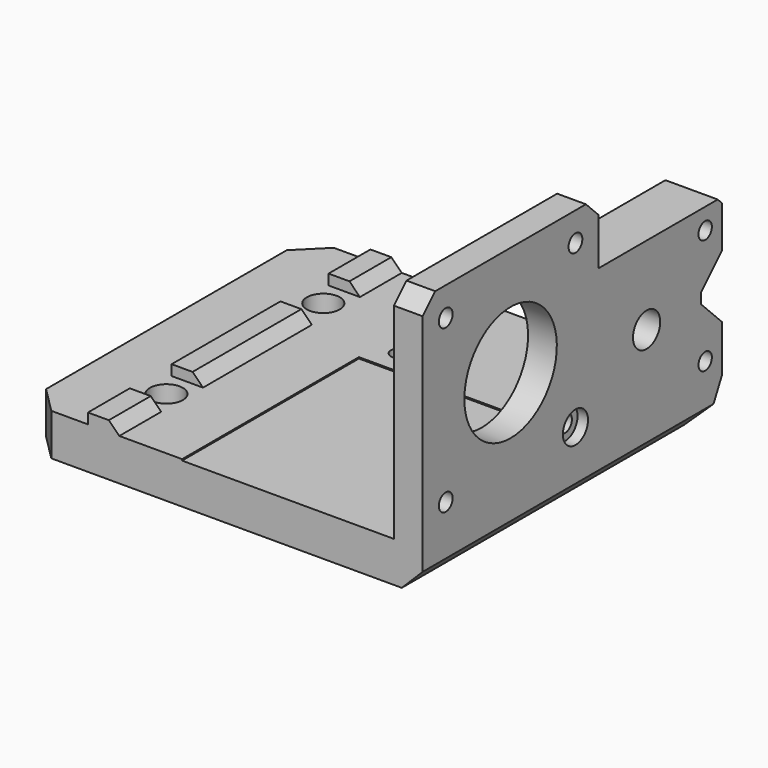
from build123d import *

# Parameters (mm, degrees)
BOX029_W             = 19
BOX029_H             = 28
BOX029_DEPTH         = 12
CHAMFER024034_SIZE   = 5
CYLINDER011018_R     = 3.5
CYLINDER011018_DEPTH = 3
CYLINDER007_R        = 1.65
CYLINDER007_DEPTH    = 16
CYLINDER011048_R     = 2
CYLINDER011048_DEPTH = 8
CYLINDER011049_R     = 2
CYLINDER011049_DEPTH = 8
CYLINDER011040_R     = 6.5
CYLINDER011040_DEPTH = 2
CYLINDER011041_R     = 3.15
CYLINDER011041_DEPTH = 10
CYLINDER011042_R     = 3.15
CYLINDER011042_DEPTH = 10
CYLINDER011039_R     = 6.5
CYLINDER011039_DEPTH = 2
BOX026_W             = 6
BOX026_H             = 26
BOX026_DEPTH         = 3
BOX025_W             = 6
BOX025_H             = 10
BOX025_DEPTH         = 3
BOX027_W             = 6
BOX027_H             = 10
BOX027_DEPTH         = 3
CHAMFER024022_SIZE   = 2
CYLINDER011002_R     = 1.6
CYLINDER011002_DEPTH = 12
CYLINDER015_R        = 1.6
CYLINDER015_DEPTH    = 12
CYLINDER011036_R     = 3.25
CYLINDER011036_DEPTH = 14
BOX035_W             = 40.5
BOX035_H             = 42.5
BOX035_DEPTH         = 42.5
BOX019_W             = 10
BOX019_H             = 82
BOX019_DEPTH         = 10
CHAMFER013_SIZE      = 4
BOX008_W             = 10
BOX008_H             = 5
BOX008_DEPTH         = 10
CHAMFER002_SIZE2     = 4
CHAMFER002_SIZE      = 8
BOX003_W             = 76
BOX003_H             = 67.5
BOX003_DEPTH         = 8
CYLINDER011015_R     = 11.05
CYLINDER011015_DEPTH = 23
CYLINDER011013_R     = 3
CYLINDER011013_DEPTH = 10
CYLINDER011011_R     = 1.65
CYLINDER011011_DEPTH = 10
CYLINDER011010_R     = 1.65
CYLINDER011010_DEPTH = 10
CYLINDER011009_R     = 1.65
CYLINDER011009_DEPTH = 10
CYLINDER011012_R     = 1.65
CYLINDER011012_DEPTH = 10
BOX001_W             = 6
BOX001_H             = 42
BOX001_DEPTH         = 42
CHAMFER004_SIZE      = 3
BOX002_W             = 10
BOX002_H             = 29.5
BOX002_DEPTH         = 30
CHAMFER024021_SIZE   = 1
CHAMFER024023_SIZE   = 5


with BuildPart() as chamfer024034:
    # Box029 → Box029 (new body)
    with BuildSketch(Plane(origin=(-16, 67, 9), x_dir=(1, 0, 0), z_dir=(0, 0, 1))):
        with Locations((9.5, 14)):
            Rectangle(BOX029_W, BOX029_H)
    extrude(amount=BOX029_DEPTH)

    # Chamfer024034
    chamfer024034_edges = [chamfer024034.edges().sort_by_distance(p)[0] for p in [
        (-6.5, 67, 9),
        (-6.5, 67, 21),
    ]]
    chamfer(chamfer024034_edges, length=CHAMFER024034_SIZE)


with BuildPart() as chamfer024034_1:
    # Chamfer024034 placement: moved
    add(chamfer024034.part.moved(Location((5, -21.5, 0))))


with BuildPart() as cylinder011018:
    # Cylinder011018 → Cylinder011018 (new body)
    with BuildSketch(Plane(origin=(-36, 26, -8), x_dir=(1, 0, 0), z_dir=(0, 0, 1))):
        Circle(CYLINDER011018_R)
    extrude(amount=CYLINDER011018_DEPTH)


with BuildPart() as fusion006002011004034:
    # Cylinder007 → Cylinder007 (new body)
    with BuildSketch(Plane(origin=(-36, 26, -8), x_dir=(1, 0, 0), z_dir=(0, 0, 1))):
        Circle(CYLINDER007_R)
    extrude(amount=CYLINDER007_DEPTH)

    # Fusion006002011004034: union Cylinder011018
    add(cylinder011018.part)


with BuildPart() as cylinder011048:
    # Cylinder011048 → Cylinder011048 (new body)
    with BuildSketch(Plane(origin=(-4, 25, 4), x_dir=(0, 0, -1), z_dir=(1, 0, 0))):
        Circle(CYLINDER011048_R)
    extrude(amount=CYLINDER011048_DEPTH)


with BuildPart() as fusion006002011004041:
    # Cylinder011049 → Cylinder011049 (new body)
    with BuildSketch(Plane(origin=(-4, 25, 26), x_dir=(0, 0, -1), z_dir=(1, 0, 0))):
        Circle(CYLINDER011049_R)
    extrude(amount=CYLINDER011049_DEPTH)

    # Fusion006002011004041: union Cylinder011048
    add(cylinder011048.part)


with BuildPart() as cylinder011040:
    # Cylinder011040 → Cylinder011040 (new body)
    with BuildSketch(Plane(origin=(-55, 31.5, -10), x_dir=(1, 0, 0), z_dir=(0, 0, 1))):
        Circle(CYLINDER011040_R)
    extrude(amount=CYLINDER011040_DEPTH)


with BuildPart() as cylinder011041:
    # Cylinder011041 → Cylinder011041 (new body)
    with BuildSketch(Plane(origin=(-55, 31.5, -10), x_dir=(1, 0, 0), z_dir=(0, 0, 1))):
        Circle(CYLINDER011041_R)
    extrude(amount=CYLINDER011041_DEPTH)


with BuildPart() as cylinder011042:
    # Cylinder011042 → Cylinder011042 (new body)
    with BuildSketch(Plane(origin=(-55, -6, -10), x_dir=(1, 0, 0), z_dir=(0, 0, 1))):
        Circle(CYLINDER011042_R)
    extrude(amount=CYLINDER011042_DEPTH)


with BuildPart() as fusion006002011004053024:
    # Cylinder011039 → Cylinder011039 (new body)
    with BuildSketch(Plane(origin=(-55, -6, -10), x_dir=(1, 0, 0), z_dir=(0, 0, 1))):
        Circle(CYLINDER011039_R)
    extrude(amount=CYLINDER011039_DEPTH)

    # Fusion006002011004053024: union Cylinder011040, Cylinder011041, Cylinder011042
    add(cylinder011040.part)
    add(cylinder011041.part)
    add(cylinder011042.part)


with BuildPart() as fusion006002011004053024_1:
    # Fusion006002011004053024 placement: moved
    add(fusion006002011004053024.part.moved(Location((0, 0, 2))))


with BuildPart() as cube025:
    # Box026 → Box026 (new body)
    with BuildSketch(Plane(origin=(-58, -1, -1), x_dir=(1, 0, 0), z_dir=(0, 0, 1))):
        with Locations((3, 13)):
            Rectangle(BOX026_W, BOX026_H)
    extrude(amount=BOX026_DEPTH)


with BuildPart() as cube024:
    # Box025 → Box025 (new body)
    with BuildSketch(Plane(origin=(-58, -21, -1), x_dir=(1, 0, 0), z_dir=(0, 0, 1))):
        with Locations((3, 5)):
            Rectangle(BOX025_W, BOX025_H)
    extrude(amount=BOX025_DEPTH)


with BuildPart() as chamfer024022:
    # Box027 → Box027 (new body)
    with BuildSketch(Plane(origin=(-58, 36.5, -1), x_dir=(1, 0, 0), z_dir=(0, 0, 1))):
        with Locations((3, 5)):
            Rectangle(BOX027_W, BOX027_H)
    extrude(amount=BOX027_DEPTH)

    # Fusion006002011004053022: union Cube025, Cube024
    add(cube025.part)
    add(cube024.part)

    # Chamfer024022
    chamfer024022_edges = [chamfer024022.edges().sort_by_distance(p)[0] for p in [
        (-52, 41.5, 2),
        (-52, 12, 2),
        (-52, -16, 2),
    ]]
    chamfer(chamfer024022_edges, length=CHAMFER024022_SIZE)


with BuildPart() as cylinder011002:
    # Cylinder011002 → Cylinder011002 (new body)
    with BuildSketch(Plane(origin=(-24, 45, 4), x_dir=(0, -1, 0), z_dir=(1, 0, 0))):
        Circle(CYLINDER011002_R)
    extrude(amount=CYLINDER011002_DEPTH)


with BuildPart() as fusion006002011004003:
    # Cylinder015 → Cylinder015 (new body)
    with BuildSketch(Plane(origin=(-24, 45, 26), x_dir=(0, -1, 0), z_dir=(1, 0, 0))):
        Circle(CYLINDER015_R)
    extrude(amount=CYLINDER015_DEPTH)

    # Fusion006002011004003: union Cylinder011002
    add(cylinder011002.part)


with BuildPart() as fusion006002011004003_1:
    # Fusion006002011004003 placement: moved
    add(fusion006002011004003.part.moved(Location((19, 1.5, 0))))


with BuildPart() as cylinder011036:
    # Cylinder011036 → Cylinder011036 (new body)
    with BuildSketch(Plane(origin=(-6.5, 32.5, 15), x_dir=(0, 0, -1), z_dir=(1, 0, 0))):
        Circle(CYLINDER011036_R)
    extrude(amount=CYLINDER011036_DEPTH)


with BuildPart() as cube034:
    # Box035 → Box035 (new body)
    with BuildSketch(Plane(origin=(-40, -21.25, -0.25), x_dir=(1, 0, 0), z_dir=(0, 0, 1))):
        with Locations((20.25, 21.25)):
            Rectangle(BOX035_W, BOX035_H)
    extrude(amount=BOX035_DEPTH)


with BuildPart() as chamfer013:
    # Box019 → Box019 (new body)
    with BuildSketch(Plane(origin=(2, -24, -14), x_dir=(1, 0, 0), z_dir=(0, 0, 1))):
        with Locations((5, 41)):
            Rectangle(BOX019_W, BOX019_H)
    extrude(amount=BOX019_DEPTH)

    # Chamfer013
    chamfer013_edges = [chamfer013.edges().sort_by_distance(p)[0] for p in [
        (2, 17, -4),
    ]]
    chamfer(chamfer013_edges, length=CHAMFER013_SIZE)


with BuildPart() as chamfer002:
    # Box008 → Box008 (new body)
    with BuildSketch(Plane(origin=(-4, 44, -8), x_dir=(1, 0, 0), z_dir=(0, 0, 1))):
        with Locations((5, 2.5)):
            Rectangle(BOX008_W, BOX008_H)
    extrude(amount=BOX008_DEPTH)

    # Chamfer002
    chamfer002_edges = [chamfer002.edges().sort_by_distance(p)[0] for p in [
        (1, 49, -8),
    ]]
    chamfer002_side = chamfer002.faces().sort_by_distance((1, 49, -3))[0]
    chamfer(chamfer002_edges, length=CHAMFER002_SIZE, length2=CHAMFER002_SIZE2, reference=chamfer002_side)


with BuildPart() as chamfer002_1:
    # Chamfer002 placement: moved
    add(chamfer002.part.moved(Location((0, 1.5, 0))))


with BuildPart() as cube003:
    # Box003 → Box003 (new body)
    with BuildSketch(Plane(origin=(-70, -21, -8), x_dir=(1, 0, 0), z_dir=(0, 0, 1))):
        with Locations((38, 33.75)):
            Rectangle(BOX003_W, BOX003_H)
    extrude(amount=BOX003_DEPTH)


with BuildPart() as cylinder011015:
    # Cylinder011015 → Cylinder011015 (new body)
    with BuildSketch(Plane(origin=(-1, 0, 21), x_dir=(0, 0, -1), z_dir=(1, 0, 0))):
        Circle(CYLINDER011015_R)
    extrude(amount=CYLINDER011015_DEPTH)


with BuildPart() as cylinder011013:
    # Cylinder011013 → Cylinder011013 (new body)
    with BuildSketch(Plane(origin=(4, 15.5, 5.5), x_dir=(0, 0, -1), z_dir=(1, 0, 0))):
        Circle(CYLINDER011013_R)
    extrude(amount=CYLINDER011013_DEPTH)


with BuildPart() as cylinder011011:
    # Cylinder011011 → Cylinder011011 (new body)
    with BuildSketch(Plane(origin=(13, -15.5, 36.5), x_dir=(0, 0, -1), z_dir=(1, 0, 0))):
        Circle(CYLINDER011011_R)
    extrude(amount=CYLINDER011011_DEPTH)


with BuildPart() as cylinder011010:
    # Cylinder011010 → Cylinder011010 (new body)
    with BuildSketch(Plane(origin=(13, -15.5, 5.5), x_dir=(0, 0, -1), z_dir=(1, 0, 0))):
        Circle(CYLINDER011010_R)
    extrude(amount=CYLINDER011010_DEPTH)


with BuildPart() as cylinder011009:
    # Cylinder011009 → Cylinder011009 (new body)
    with BuildSketch(Plane(origin=(13, 15.5, 5.5), x_dir=(0, 0, -1), z_dir=(1, 0, 0))):
        Circle(CYLINDER011009_R)
    extrude(amount=CYLINDER011009_DEPTH)


with BuildPart() as fusion006002011004004:
    # Cylinder011012 → Cylinder011012 (new body)
    with BuildSketch(Plane(origin=(13, 15.5, 36.5), x_dir=(0, 0, -1), z_dir=(1, 0, 0))):
        Circle(CYLINDER011012_R)
    extrude(amount=CYLINDER011012_DEPTH)

    # Fusion006002011004004: union Cylinder011011, Cylinder011010, Cylinder011009
    add(cylinder011011.part)
    add(cylinder011010.part)
    add(cylinder011009.part)


with BuildPart() as fusion006002011004004_1:
    # Fusion006002011004004 placement: moved
    add(fusion006002011004004.part.moved(Location((-16, 0, 0))))


with BuildPart() as cut001018:
    # Box001 → Box001 (new body)
    with BuildSketch(Plane(origin=(0, -21, 0), x_dir=(1, 0, 0), z_dir=(0, 0, 1))):
        with Locations((3, 21)):
            Rectangle(BOX001_W, BOX001_H)
    extrude(amount=BOX001_DEPTH)

    # Chamfer004
    chamfer004_edges = [cut001018.edges().sort_by_distance(p)[0] for p in [
        (3, -21, 42),
        (3, 21, 42),
    ]]
    chamfer(chamfer004_edges, length=CHAMFER004_SIZE)

    # Cut001014: cut Fusion006002011004004
    add(fusion006002011004004_1.part, mode=Mode.SUBTRACT)

    # Cut001015: cut Cylinder011013
    add(cylinder011013.part, mode=Mode.SUBTRACT)

    # Cut001018: cut Cylinder011015
    add(cylinder011015.part, mode=Mode.SUBTRACT)


with BuildPart() as main_body_basic:
    # Box002 → Box002 (new body)
    with BuildSketch(Plane(origin=(-4, 21, 0), x_dir=(1, 0, 0), z_dir=(0, 0, 1))):
        with Locations((5, 14.75)):
            Rectangle(BOX002_W, BOX002_H)
    extrude(amount=BOX002_DEPTH)

    # Fusion006002011004053021: union Chamfer002, Cube003, Cut001018
    add(chamfer002_1.part)
    add(cube003.part)
    add(cut001018.part)

    # Chamfer024021
    chamfer024021_edges = [main_body_basic.edges().sort_by_distance(p)[0] for p in [
        (1, 50.5, 30),
    ]]
    chamfer(chamfer024021_edges, length=CHAMFER024021_SIZE)

    # Cut001063008014: cut Chamfer013
    add(chamfer013.part, mode=Mode.SUBTRACT)

    # Cut001063008015: cut Cube034
    add(cube034.part, mode=Mode.SUBTRACT)

    # Cut001063008016: cut Cylinder011036
    add(cylinder011036.part, mode=Mode.SUBTRACT)

    # Cut001063008017: cut Fusion006002011004003
    add(fusion006002011004003_1.part, mode=Mode.SUBTRACT)

    # Fusion006002011004053023: union Chamfer024022
    add(chamfer024022.part)

    # Cut001063008018: cut Fusion006002011004053024
    add(fusion006002011004053024_1.part, mode=Mode.SUBTRACT)

    # Chamfer024023
    chamfer024023_edges = [main_body_basic.edges().sort_by_distance(p)[0] for p in [
        (-70, 46.5, -4),
        (-70, -21, -4),
    ]]
    chamfer(chamfer024023_edges, length=CHAMFER024023_SIZE)

    # Cut001063008019: cut Fusion006002011004041
    add(fusion006002011004041.part, mode=Mode.SUBTRACT)

    # Cut001063008020: cut Fusion006002011004034
    add(fusion006002011004034.part, mode=Mode.SUBTRACT)

    # Cut001063008009006: cut Chamfer024034
    add(chamfer024034_1.part, mode=Mode.SUBTRACT)


solid = main_body_basic.part
